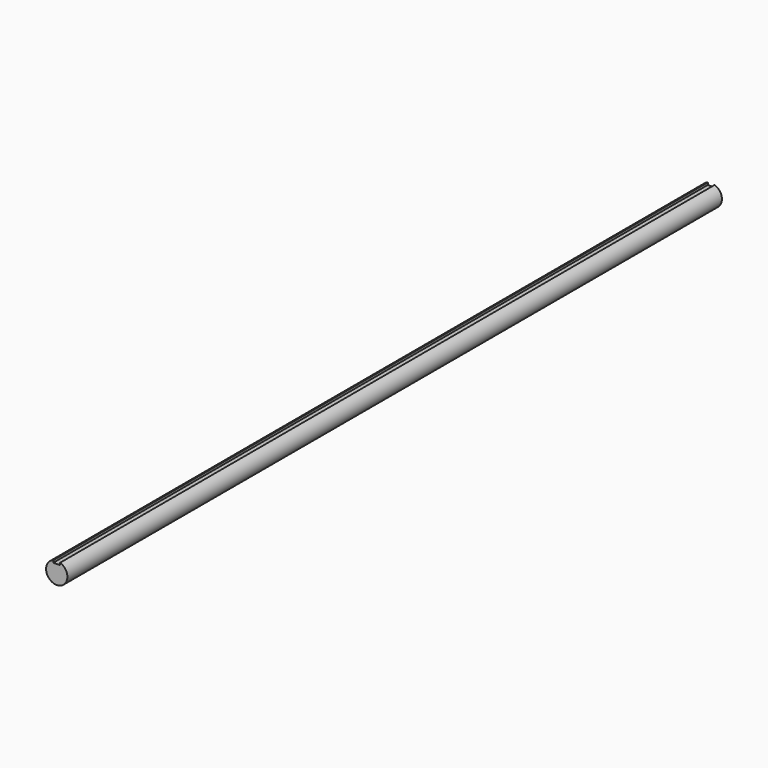
from build123d import *

# Parameters (mm, degrees)
F0_R     = 7.9375
F1_DEPTH = 609.6
F2_W     = 2.54
F2_H     = 10.16
F3_DEPTH = 711.2


with BuildPart() as f1:
    # F0 (on Front) → F1 (new body)
    with BuildSketch(Plane.XZ):
        Circle(F0_R)
    extrude(amount=F1_DEPTH)

    # F2 (on Front) → F3 (cut)
    with BuildSketch(Plane.XZ):
        with Locations((1.27, 10.922001)):
            Rectangle(F2_W, F2_H)
        with Locations((-1.27, 10.922001)):
            Rectangle(F2_W, F2_H)
    extrude(amount=F3_DEPTH, mode=Mode.SUBTRACT)


solid = f1.part
